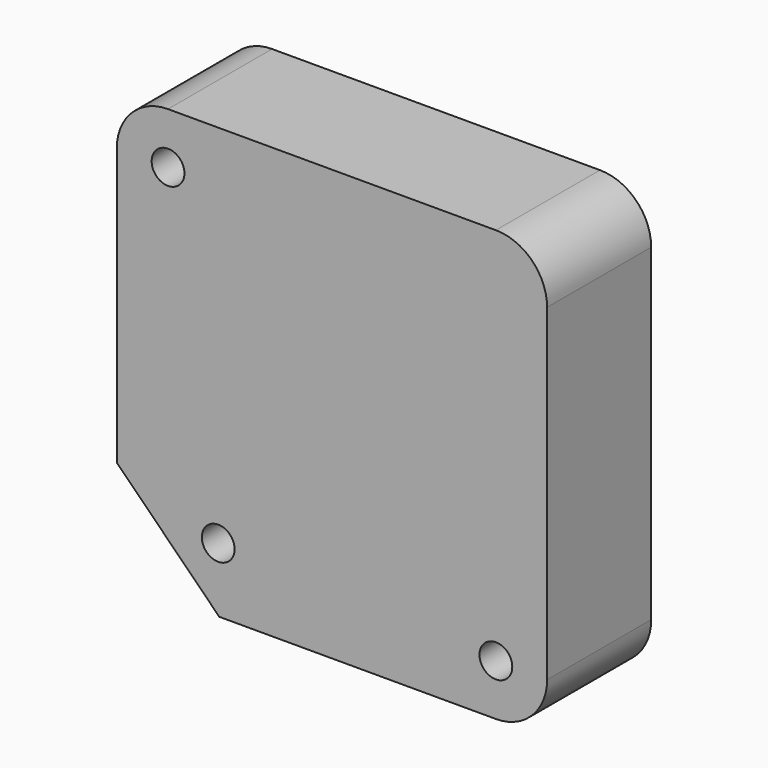
from build123d import *

# Parameters (mm, degrees)
F0_W     = 42
F0_H     = 42
F1_DEPTH = 12.7
F2_R     = 5
F3_SIZE  = 10
F4_R     = 1.6
F5_DEPTH = 25
F6_R     = 2
F7_DEPTH = 10


with BuildPart() as f1:
    # F0 (on Front) → F1 (new body)
    with BuildSketch(Plane.XZ):
        Rectangle(F0_W, F0_H)
    extrude(amount=F1_DEPTH)

    # F2
    f2_edges = [f1.edges().sort_by_distance(p)[0] for p in [
        (21, -6.35, 21),
        (-21, -6.35, 21),
        (21, -6.35, -21),
    ]]
    fillet(f2_edges, radius=F2_R)

    # F3
    f3_edges = [f1.edges().sort_by_distance(p)[0] for p in [
        (-21, -6.35, -21),
    ]]
    chamfer(f3_edges, length=F3_SIZE)

    # F4 (on face) → F5 (cut)
    with BuildSketch(Plane.XZ.offset(12.7)):
        with Locations((-16, 16)):
            Circle(F4_R)
        with Locations((16, -16)):
            Circle(F4_R)
        with Locations((-11.1, -14.710243)):
            Circle(F4_R)
    extrude(amount=-F5_DEPTH, mode=Mode.SUBTRACT)

    # F6 (on face) → F7 (cut)
    with BuildSketch(Plane(origin=(0, 0, -21), x_dir=(1, 0, 0), z_dir=(0, 0, -1))):
        with Locations((8.7, 6.35)):
            Circle(F6_R)
        with Locations((-1.3, 6.35)):
            Circle(F6_R)
    extrude(amount=-F7_DEPTH, mode=Mode.SUBTRACT)


solid = f1.part
